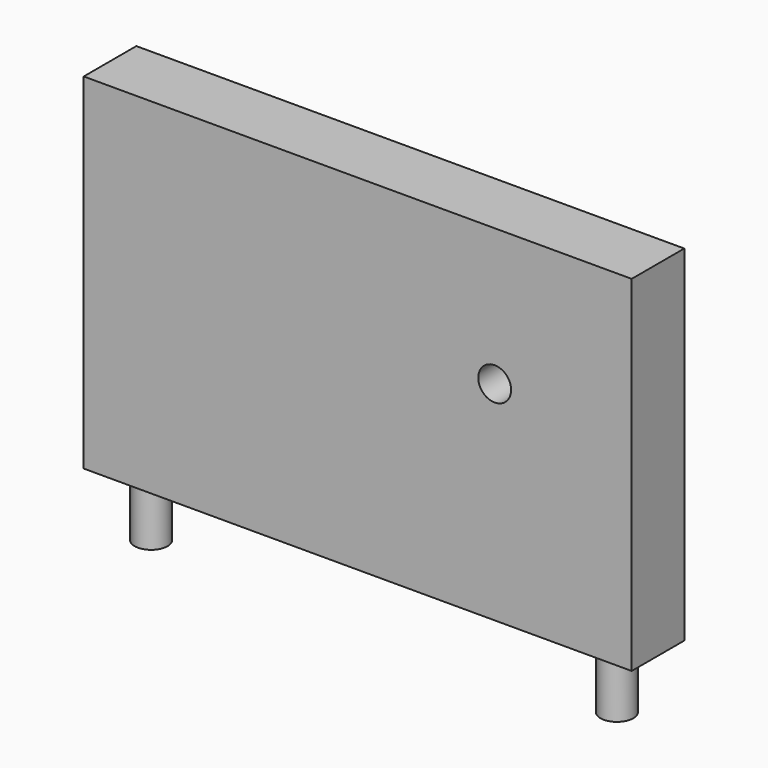
from build123d import *

# Parameters (mm, degrees)
F0_W     = 100
F0_H     = 63
F1_DEPTH = 12
F2_R     = 3
F3_DEPTH = 11.5
F4_R     = 3
F5_DEPTH = 12.001


with BuildPart() as f1:
    # F0 (on Front) → F1 (new body)
    with BuildSketch(Plane.XZ):
        with Locations((50, 31.5)):
            Rectangle(F0_W, F0_H)
    extrude(amount=F1_DEPTH)

    # F2 (on face) → F3 (join)
    with BuildSketch(Plane(origin=(0, 0, 0), x_dir=(1, 0, 0), z_dir=(0, 0, -1))):
        with Locations((7.5, 6)):
            Circle(F2_R)
        with Locations((92.5, 6)):
            Circle(F2_R)
    extrude(amount=F3_DEPTH)

    # F4 (on face) → F5 (cut, through all)
    with BuildSketch(Plane.XZ.offset(12)):
        with Locations((75, 38)):
            Circle(F4_R)
    extrude(amount=-F5_DEPTH, mode=Mode.SUBTRACT)


solid = f1.part
